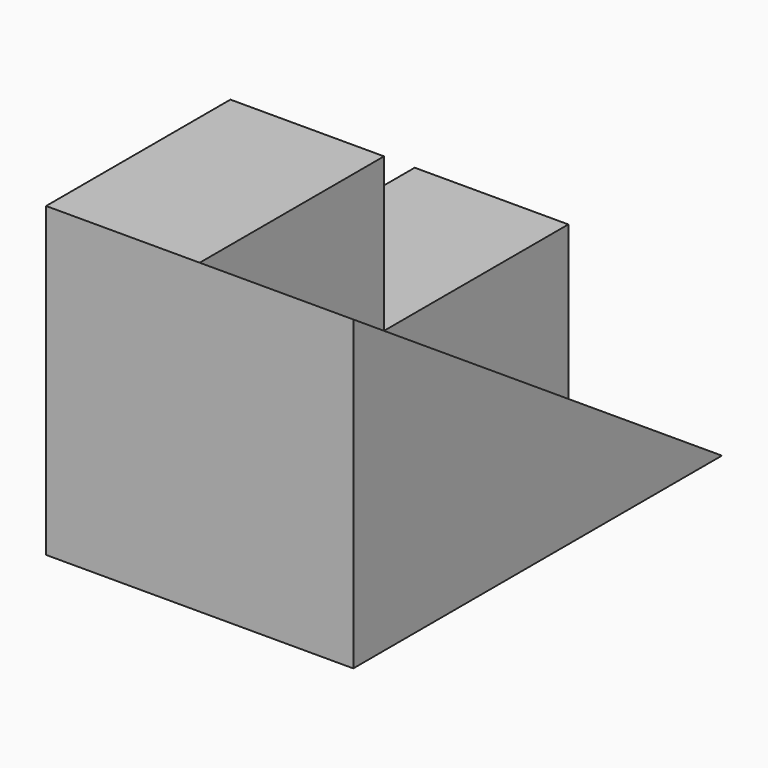
from build123d import *

# Parameters (mm, degrees)
F2_DEPTH = 25.4
F3_DEPTH = 12.7


with BuildPart() as f2:
    # F0 (on Right) → F2 (new body)
    with BuildSketch(Plane.YZ):
        Polygon((0, 0), (-38.1, 25.4), (-38.1, 0), align=None)
    extrude(amount=F2_DEPTH)

    # F1 (on Right) → F3 (join)
    with BuildSketch(Plane.YZ):
        Polygon((-19.05, 25.4), (-38.1, 25.4), (-19.05, 12.7), align=None)
        Polygon((0, 12.7), (-19.05, 12.7), (0, 0), align=None)
    extrude(amount=F3_DEPTH)


solid = f2.part
